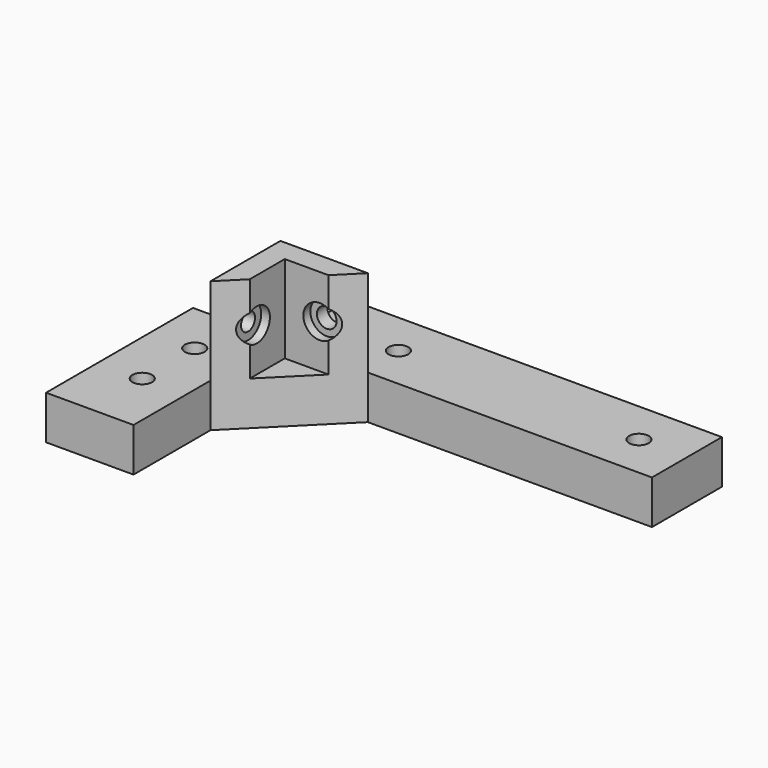
from build123d import *

# Parameters (mm, degrees)
F0_R      = 2.25
F1_DEPTH  = 10
F3_DEPTH  = 20
F4_R      = 2.01
F5_DEPTH  = 5
F6_R      = 2.25
F7_DEPTH  = 5
F8_R      = 3.75
F9_DEPTH  = 2
F10_R     = 3.75
F11_DEPTH = 2


with BuildPart() as f1:
    # F0 (on Top) → F1 (new body)
    with BuildSketch(Plane.XY):
        Polygon((15.558824, 6.264706), (15.558824, -35.735294), (35.558824, -35.735294), (35.558824, -13.735294), (55.558824, 6.264706), (120.558824, 6.264706), (120.558824, 26.264706), (35.558824, 26.264706), (35.558824, 6.264706), align=None)
        with Locations((25.558824, -20.735294)):
            Circle(F0_R, mode=Mode.SUBTRACT)
        with Locations((25.558824, -5.735294)):
            Circle(F0_R, mode=Mode.SUBTRACT)
        with Locations((54.558824, 16.264706)):
            Circle(F0_R, mode=Mode.SUBTRACT)
        with Locations((109.558824, 16.264706)):
            Circle(F0_R, mode=Mode.SUBTRACT)
    extrude(amount=F1_DEPTH)

    # F2 (on face) → F3 (join)
    with BuildSketch(Plane.XY.offset(10)):
        Polygon((55.558824, 6.264706), (35.558824, 6.264706), (35.558824, -13.735294), (40.558824, -8.735294), (40.558824, 1.264706), (45.558824, 1.264706), (50.558824, 1.264706), align=None)
    extrude(amount=F3_DEPTH)

    # F4 (on face) → F5 (cut)
    with BuildSketch(Plane(origin=(35.558824, 0, 0), x_dir=(0, -1, 0), z_dir=(-1, 0, 0))):
        with Locations((6.735294, 20)):
            Circle(F4_R)
    extrude(amount=-F5_DEPTH, mode=Mode.SUBTRACT)

    # F6 (on face) → F7 (cut)
    with BuildSketch(Plane(origin=(0, 6.264706, 0), x_dir=(-1, 0, 0), z_dir=(0, 1, 0))):
        with Locations((-48.558824, 20)):
            Circle(F6_R)
    extrude(amount=-F7_DEPTH, mode=Mode.SUBTRACT)

    # F8 (on face) → F9 (cut)
    with BuildSketch(Plane.XZ.offset(-1.264706)):
        with Locations((48.558824, 20)):
            Circle(F8_R)
    extrude(amount=-F9_DEPTH, mode=Mode.SUBTRACT)

    # F10 (on face) → F11 (cut)
    with BuildSketch(Plane.YZ.offset(40.558824)):
        with Locations((-6.735294, 20)):
            Circle(F10_R)
    extrude(amount=-F11_DEPTH, mode=Mode.SUBTRACT)


solid = f1.part
